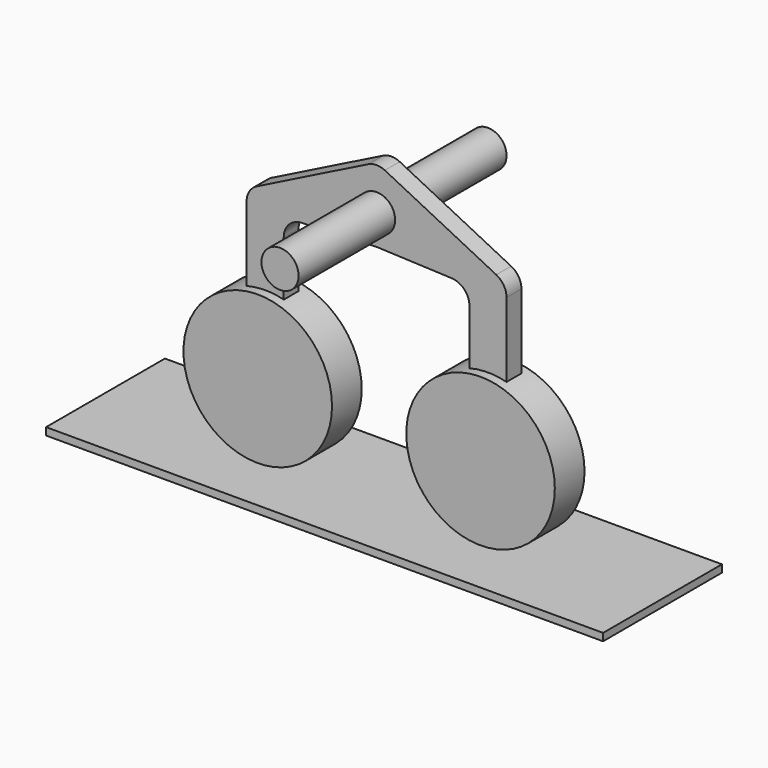
from build123d import *

# Parameters (mm, degrees)
F0_R      = 20
F1_DEPTH  = 5
F3_DEPTH  = 2.5
F4_R      = 5
F6_W      = 150
F6_H      = 40
F7_DEPTH  = 2
F8_R      = 5
F9_DEPTH  = 2.5
F10_DEPTH = 35


with BuildPart() as f1:
    # F0 (on Front) → F1 (new body, symmetric)
    with BuildSketch(Plane.XZ):
        with Locations((-30, 0)):
            Circle(F0_R)
    extrude(amount=F1_DEPTH, both=True)



with BuildPart() as f1b:
    # F0 (on Front) → F1, piece 2 (new body, symmetric)
    with BuildSketch(Plane.XZ):
        with Locations((30, 0)):
            Circle(F0_R)
    extrude(amount=F1_DEPTH, both=True)


with BuildPart() as f1_1:
    add(f1.part)

    add(f1b.part)  # F3 merges F1b
    # F2 (on Front) → F3 (join, symmetric)
    with BuildSketch(Plane.XZ):
        Polygon((35, 42.493309043), (0, 60), (-35, 42.493309043), (-35, 19.364916731), (-25, 19.364916731), (-25, 38.9509441833), (0, 40), (25, 38.9509441833), (25, 19.364916731), (35, 19.364916731), align=None)
    extrude(amount=F3_DEPTH, both=True)

    # F4
    f4_edges = [f1_1.edges().sort_by_distance(p)[0] for p in [
        (0, 0, 60),
        (-35, 0, 42.493309),
        (35, 0, 42.493309),
        (-25, 0, 38.950944),
        (25, 0, 38.950944),
    ]]
    fillet(f4_edges, radius=F4_R)

    # F8 (on Front) → F9 (cut, symmetric)
    with BuildSketch(Plane.XZ):
        with Locations((0, 48)):
            Circle(F8_R)
    extrude(amount=F9_DEPTH, both=True, mode=Mode.SUBTRACT)


with BuildPart() as f7:
    # F6 (on offset) → F7 (new body)
    with BuildSketch(Plane.XY.offset(-20)):
        Rectangle(F6_W, F6_H)
    extrude(amount=-F7_DEPTH)


with BuildPart() as f10:
    # F8 (on Front) → F10 (new body, symmetric)
    with BuildSketch(Plane.XZ):
        with Locations((0, 48)):
            Circle(F8_R)
    extrude(amount=F10_DEPTH, both=True)


solid = Compound([f1_1.part, f7.part, f10.part])
